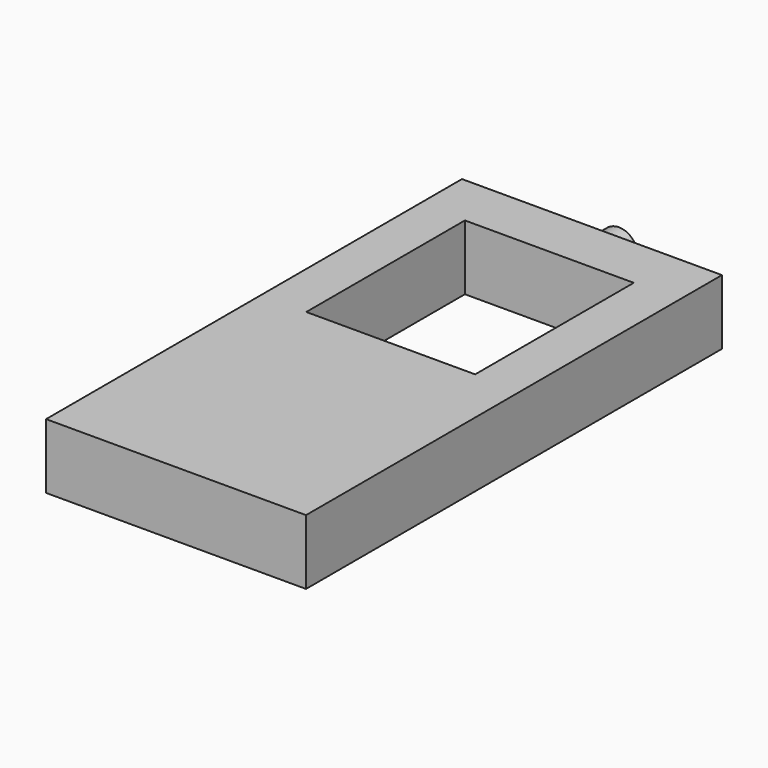
from build123d import *

# Parameters (mm, degrees)
F0_W     = 25.4
F0_H     = 50.8
F0_W_2   = 16.5
F0_H_2   = 19.372893
F1_DEPTH = 6.35
F2_R     = 1.815
F3_DEPTH = 3.302


with BuildPart() as f1:
    # F0 (on Top) → F1 (new body)
    with BuildSketch(Plane.XY):
        Rectangle(F0_W, F0_H)
        with Locations((-0.005, 10.513554)):
            Rectangle(F0_W_2, F0_H_2, mode=Mode.SUBTRACT)
    extrude(amount=F1_DEPTH)

    # F2 (on face) → F3 (join)
    with BuildSketch(Plane(origin=(0, 25.4, 0), x_dir=(-1, 0, 0), z_dir=(0, 1, 0))):
        with Locations((0, 3.175)):
            Circle(F2_R)
    extrude(amount=F3_DEPTH)


solid = f1.part
